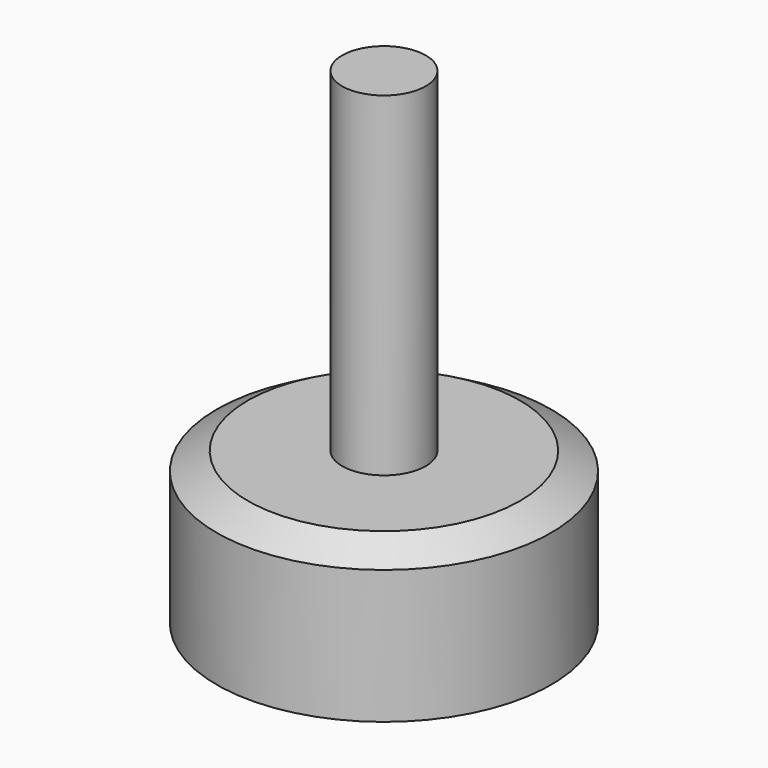
from build123d import *

# Parameters (mm, degrees)
F0_W   = 2.5
F0_H   = 20
F0_H_2 = 3
F0_H_3 = 1.0746234533


with BuildPart() as f1:
    # F0 (on Front) → F1 (revolve)
    with BuildSketch(Plane.XZ):
        with Locations((-21.8013077103, 19.0746234533)):
            Rectangle(F0_W, F0_H)
        Polygon((-23.0513077103, 8), (-30.5513077103, 8), (-30.5513077103, 0), (-23.0513077103, 0), (-23.0513077103, 5), align=None)
        Polygon((-28.6900052902, 9.0746234533), (-30.5513077103, 8), (-23.0513077103, 8), (-23.0513077103, 9.0746234533), align=None)
        with Locations((-21.8013077103, 6.5)):
            Rectangle(F0_W, F0_H_2)
        with Locations((-21.8013077103, 8.5373117267)):
            Rectangle(F0_W, F0_H_3)
    revolve(axis=Axis((-20.5513077103, 0, 19.0746234533), (0, 0, 1)))


solid = f1.part
